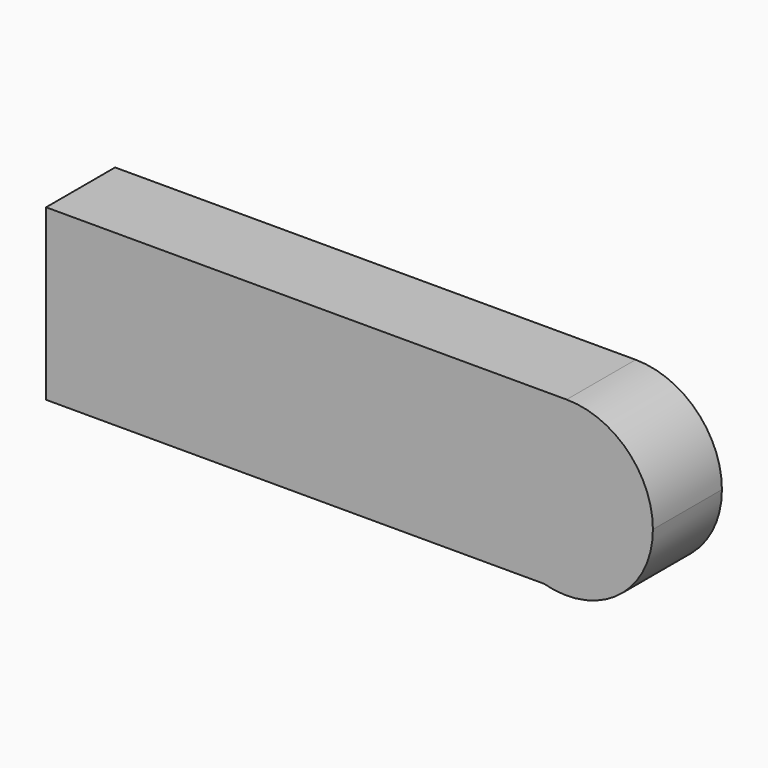
from build123d import *

# Parameters (mm, degrees)
F1_DEPTH = 12.7


with BuildPart() as f1:
    # F0 (on Front) → F1 (new body)
    with BuildSketch(Plane.XZ):
        with BuildLine():
            ThreePointArc((-3.351711, -12.249736), (-12.586931, 1.69091), (0, 12.7))
            Line((0, 12.7), (-76.620914, 12.7))
            Line((-76.620914, 12.7), (-76.620914, -12.249736))
            Line((-76.620914, -12.249736), (-3.351711, -12.249736))
        make_face()
        with BuildLine():
            Line((0, -12.249736), (0, 12.7))
            ThreePointArc((0, 12.7), (-12.586931, 1.69091), (-3.351711, -12.249736))
            Line((-3.351711, -12.249736), (0, -12.249736))
        make_face()
        with BuildLine():
            ThreePointArc((-3.351711, -12.249736), (7.70465, -10.095958), (12.7, 0))
            ThreePointArc((12.7, 0), (8.980256, 8.980256), (0, 12.7))
            Line((0, 12.7), (0, -12.249736))
            Line((0, -12.249736), (-3.351711, -12.249736))
        make_face()
    extrude(amount=F1_DEPTH)


solid = f1.part
